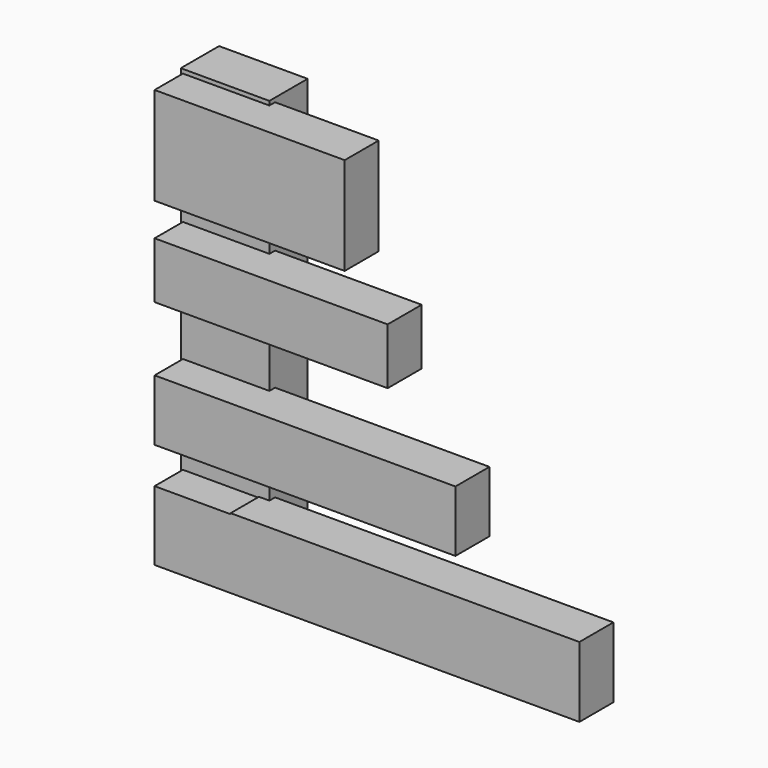
from build123d import *

# Parameters (mm, degrees)
F0_W     = 10
F0_H     = 50
F1_DEPTH = 5.4
F3_START = 4.6
F2_W     = 8.5828267038
F2_H     = 11.0100731254
F2_W_2   = 12.8774824552
F2_H_2   = 6.9046204444
F2_W_3   = 25.3804451786
F2_H_3   = 7.8376773745
F2_H_4   = 6.3447866123
F2_W_4   = 17.729378771
F3_DEPTH = 4.8


with BuildPart() as f1:
    # F0 (on Front) → F1 (new body)
    with BuildSketch(Plane.XZ):
        Rectangle(F0_W, F0_H)
    extrude(amount=F1_DEPTH)

    # F2 (on Front) → F3 (join)
    with BuildSketch(Plane.XZ.offset(F3_START)):
        with Locations((-0.4671770148, 19.0343614668)):
            Rectangle(F2_W, F2_H)
        with Locations((10.2629775647, 19.0343614668)):
            Rectangle(F2_W_2, F2_H)
        with Locations((-0.4671770148, -7.2778436588)):
            Rectangle(F2_W, F2_H_2)
        with Locations((16.5144589264, -7.2778436588)):
            Rectangle(F2_W_3, F2_H_2)
        with Locations((-0.4671770148, -18.7544440851)):
            Rectangle(F2_W, F2_H_3)
        Polygon((3.8242363371, -14.7295454517), (3.8242363371, -14.8356053978), (3.8242363371, -22.6732827723), (43.2005375624, -22.6732827723), (43.2005375624, -14.7295454517), align=None)
        with Locations((-0.4671770148, 6.6247038776)):
            Rectangle(F2_W, F2_H_4)
        with Locations((12.6889257226, 6.6247038776)):
            Rectangle(F2_W_4, F2_H_4)
    extrude(amount=F3_DEPTH)


solid = f1.part
